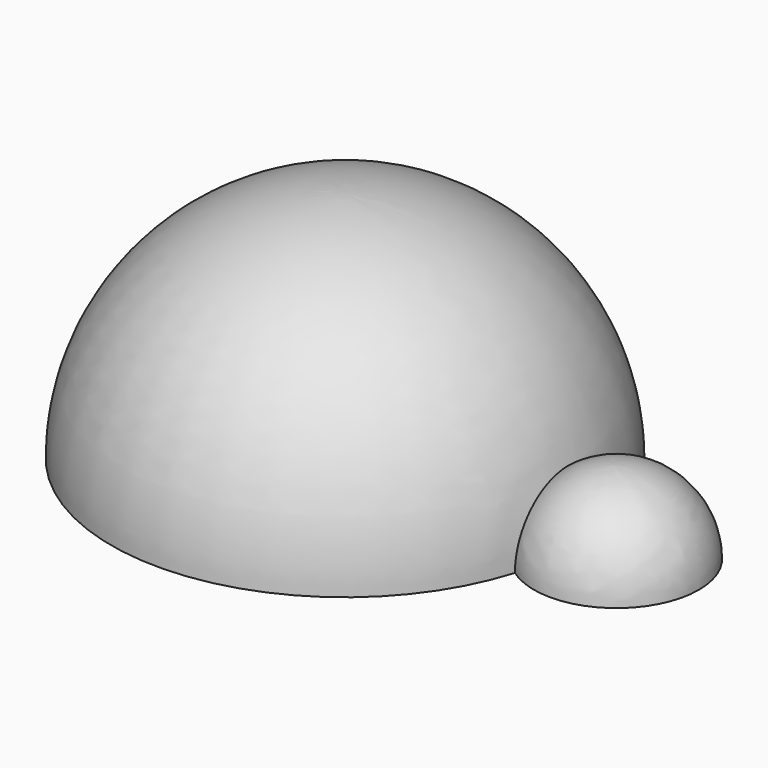
from build123d import *

# Parameters (mm, degrees)
F4_W     = 6
F4_H     = 3.5
F5_DEPTH = 4.3


with BuildPart() as f1:
    # F0 (on Front) → F1 (revolve)
    with BuildSketch(Plane.XZ):
        with BuildLine():
            Line((0, 7), (0, 0))
            Line((0, 0), (7, 0))
            ThreePointArc((7, 0), (4.949747, 4.949747), (0, 7))
        make_face()
    revolve(axis=Axis((0, 0, 3.5), (0, 0, 1)))

    # F2 (on Front) → F3 (revolve)
    with BuildSketch(Plane.XZ):
        with BuildLine():
            Line((8.12679, 0), (10.597942, 0))
            ThreePointArc((10.597942, 0), (9.874158, 1.747369), (8.12679, 2.471152))
            Line((8.12679, 2.471152), (8.12679, 0))
        make_face()
    revolve(axis=Axis((8.12679, 0, 1.235576), (0, 0, 1)))

    # F4 (on Top) → F5 (cut)
    with BuildSketch(Plane.XY):
        Rectangle(F4_W, F4_H)
    extrude(amount=F5_DEPTH, mode=Mode.SUBTRACT)


solid = f1.part
